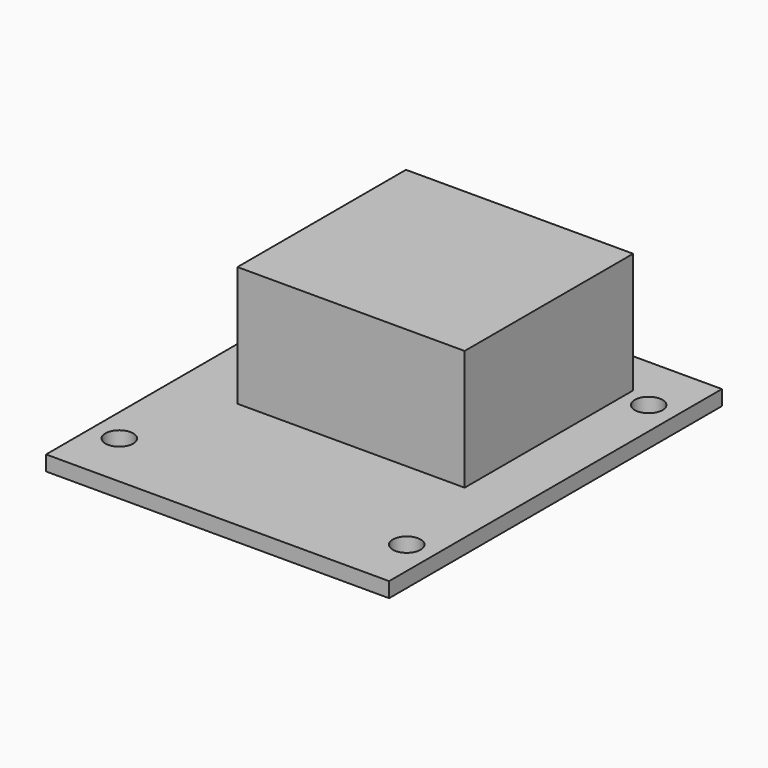
from build123d import *

# Parameters (mm, degrees)
F0_W     = 45.6
F0_H     = 55.3
F1_DEPTH = 2
F2_R     = 1.85
F3_DEPTH = 25
F4_W     = 30.2
F4_H     = 28
F5_DEPTH = 16


with BuildPart() as f1:
    # F0 (on Top) → F1 (new body)
    with BuildSketch(Plane.XY):
        Rectangle(F0_W, F0_H)
    extrude(amount=F1_DEPTH)

    # F2 (on face) → F3 (cut)
    with BuildSketch(Plane.XY.offset(2)):
        with Locations((-19.1, 20.1)):
            Circle(F2_R)
        with Locations((19.1, 20.1)):
            Circle(F2_R)
        with Locations((-19.1, -20.1)):
            Circle(F2_R)
        with Locations((19.1, -20.1)):
            Circle(F2_R)
    extrude(amount=-F3_DEPTH, mode=Mode.SUBTRACT)

    # F4 (on face) → F5 (join)
    with BuildSketch(Plane.XY.offset(2)):
        with Locations((0.7, 7.65)):
            Rectangle(F4_W, F4_H)
    extrude(amount=F5_DEPTH)


solid = f1.part
